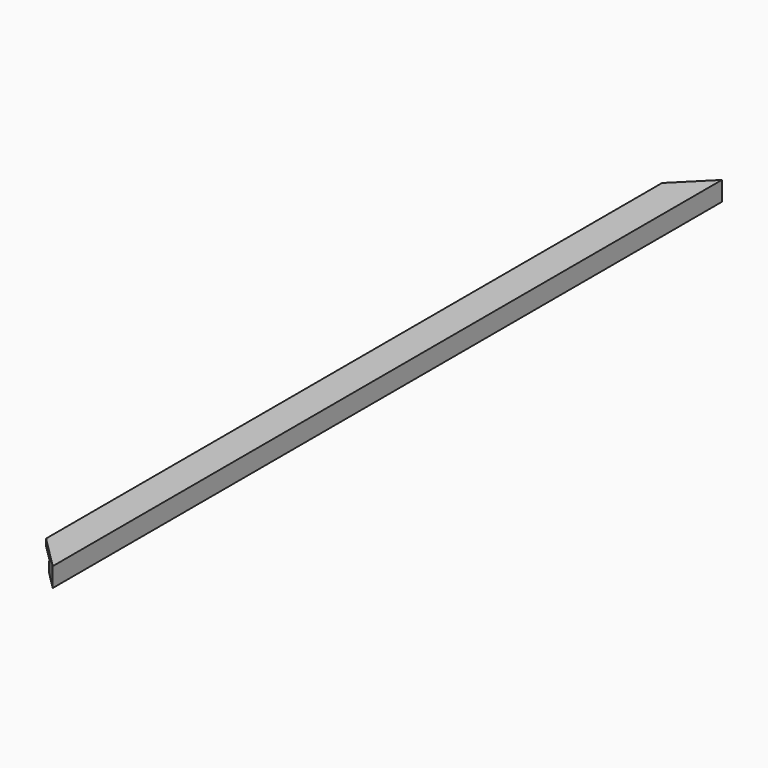
from build123d import *

# Parameters (mm, degrees)
F1_DEPTH = 440
F3_DEPTH = 25.4


with BuildPart() as f1:
    # F0 (on Front) → F1 (new body, symmetric)
    with BuildSketch(Plane.XZ):
        Polygon((20.2946, 0), (20.2946, 20.3), (-14.7054, 20.3), (-14.7054, 13.3), (3, 13.3), (3, 10), (0, 10), (0, 0), align=None)
    extrude(amount=F1_DEPTH, both=True)

    # F2 (on face) → F3 (cut)
    with BuildSketch(Plane.XY.offset(20.3)):
        Polygon((-14.7054, 405), (20.2946, 440), (-14.7054, 440), align=None)
        Polygon((-14.7054, -440), (20.2946, -440), (-14.7054, -405), align=None)
    extrude(amount=-F3_DEPTH, mode=Mode.SUBTRACT)


solid = f1.part
